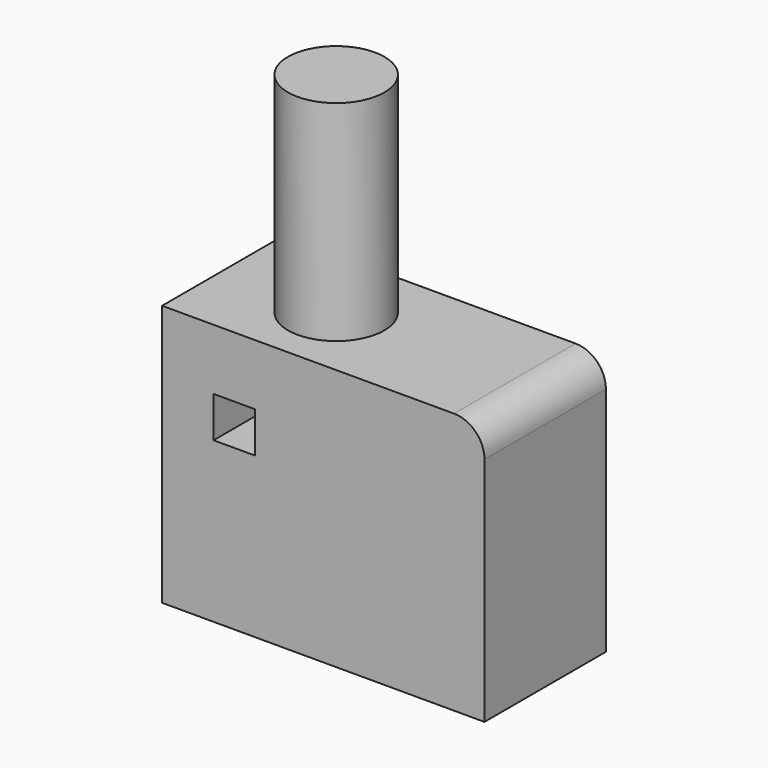
from build123d import *

# Parameters (mm, degrees)
F0_W     = 134.842023
F0_H     = 109.384302
F0_W_2   = 17.344825
F0_H_2   = 17.065071
F1_DEPTH = 63.5
F2_R     = 12.7
F3_R     = 20.174327
F4_DEPTH = 87.63


with BuildPart() as f1:
    # F0 (on Front) → F1 (new body)
    with BuildSketch(Plane.XZ):
        with Locations((-0.380561, 8.672414)):
            Rectangle(F0_W, F0_H)
        with Locations((-37.588007, 29.374301)):
            Rectangle(F0_W_2, F0_H_2, mode=Mode.SUBTRACT)
    extrude(amount=F1_DEPTH)

    # F2
    f2_edges = [f1.edges().sort_by_distance(p)[0] for p in [
        (67.040451, -31.75, 63.364565),
    ]]
    fillet(f2_edges, radius=F2_R)

    # F3 (on face) → F4 (join)
    with BuildSketch(Plane.XY.offset(63.364565)):
        with Locations((-20.378303, -31.75)):
            Circle(F3_R)
    extrude(amount=F4_DEPTH)


solid = f1.part
